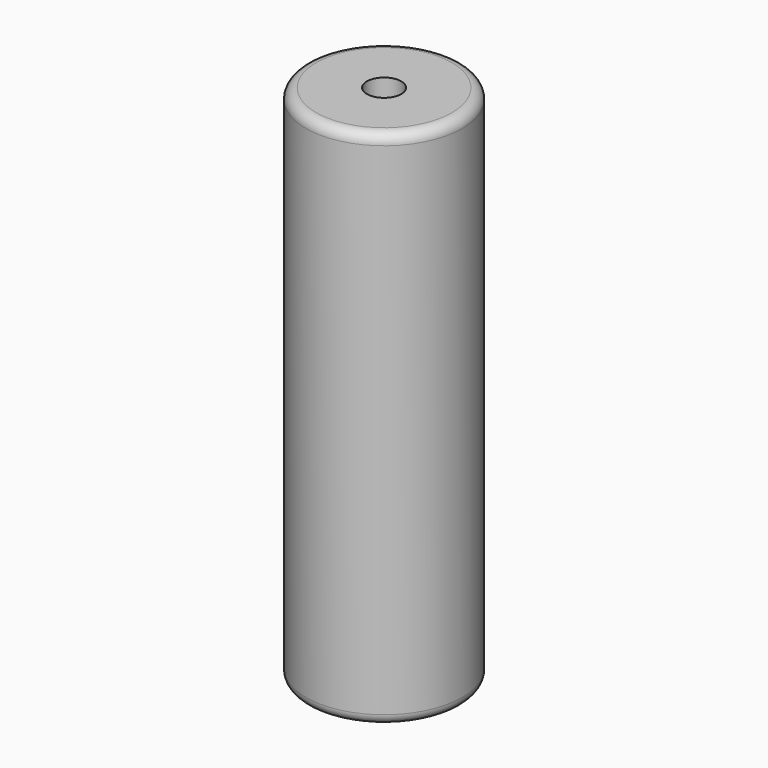
from build123d import *

# Parameters (mm, degrees)
F0_R     = 7.5
F1_DEPTH = 50
F2_R     = 1
F4_D     = 3.3
F4_DEPTH = 14.1
F4_TIP   = 0.9914200214
F6_D     = 3.3
F6_DEPTH = 14.1
F6_TIP   = 0.9914200214


with BuildPart() as f1:
    # F0 (on Top) → F1 (new body)
    with BuildSketch(Plane.XY):
        Circle(F0_R)
    extrude(amount=F1_DEPTH)

    # F2
    f2_edges = [f1.edges().sort_by_distance(p)[0] for p in [
        (-7.5, 0, 50),
        (-7.5, 0, 0),
    ]]
    fillet(f2_edges, radius=F2_R)

    # F4
    with Locations(Plane.XY.offset(50)):
        with Locations((0, 0)):
            Hole(F4_D / 2, depth=F4_DEPTH)
            with Locations((0, 0, -(F4_DEPTH + F4_TIP / 2))):  # 118° drill point
                Cone(0, F4_D / 2, F4_TIP, mode=Mode.SUBTRACT)

    # F6
    with Locations(Plane(origin=(0, 0, 0), x_dir=(1, 0, 0), z_dir=(0, 0, -1))):
        with Locations((0, 0)):
            Hole(F6_D / 2, depth=F6_DEPTH)
            with Locations((0, 0, -(F6_DEPTH + F6_TIP / 2))):  # 118° drill point
                Cone(0, F6_D / 2, F6_TIP, mode=Mode.SUBTRACT)


solid = f1.part
